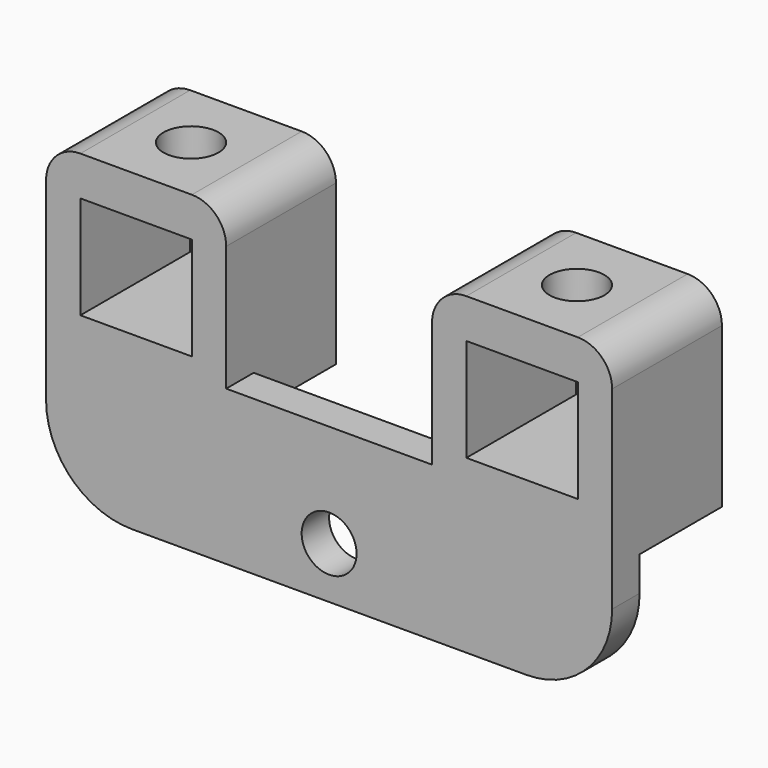
from build123d import *

# Parameters (mm, degrees)
CYLINDER077_R     = 1.6
CYLINDER077_DEPTH = 2.3
BOX189_W          = 10.5
BOX189_H          = 8
BOX189_DEPTH      = 2.3
FILLET046_R       = 2
CYLINDER078_R     = 1.6
CYLINDER078_DEPTH = 2.3
BOX190_W          = 10.5
BOX190_H          = 8
BOX190_DEPTH      = 2.3
FILLET045_R       = 2
BOX200_W          = 6.5
BOX200_H          = 9
BOX200_DEPTH      = 3
BOX199_W          = 2
BOX199_H          = 8
BOX199_DEPTH      = 9
BOX198_W          = 2
BOX198_H          = 8
BOX198_DEPTH      = 9
BOX197_W          = 6.5
BOX197_H          = 9
BOX197_DEPTH      = 3
BOX196_W          = 2
BOX196_H          = 8
BOX196_DEPTH      = 9
BOX195_W          = 2
BOX195_H          = 8
BOX195_DEPTH      = 9
CYLINDER076_R     = 1.6
CYLINDER076_DEPTH = 2
BOX194_W          = 33
BOX194_H          = 2
BOX194_DEPTH      = 9
FILLET047_R       = 5


with BuildPart() as cylinder158:
    # Cylinder077 → Cylinder077 (new body)
    with BuildSketch(Plane(origin=(47.75, 15, 6), x_dir=(1, 0, 0), z_dir=(0, 0, 1))):
        Circle(CYLINDER077_R)
    extrude(amount=CYLINDER077_DEPTH)


with BuildPart() as fillet046:
    # Box189 → Box189 (new body)
    with BuildSketch(Plane(origin=(42.5, 11, 6), x_dir=(1, 0, 0), z_dir=(0, 0, 1))):
        with Locations((5.25, 4)):
            Rectangle(BOX189_W, BOX189_H)
    extrude(amount=BOX189_DEPTH)

    # Cut100: cut Cylinder158
    add(cylinder158.part, mode=Mode.SUBTRACT)

    # Fillet046
    fillet046_edges = [fillet046.edges().sort_by_distance(p)[0] for p in [
        (42.5, 15, 8.3),
        (53, 15, 8.3),
    ]]
    fillet(fillet046_edges, radius=FILLET046_R)


with BuildPart() as cylinder159:
    # Cylinder078 → Cylinder078 (new body)
    with BuildSketch(Plane(origin=(70.25, 15, 6), x_dir=(1, 0, 0), z_dir=(0, 0, 1))):
        Circle(CYLINDER078_R)
    extrude(amount=CYLINDER078_DEPTH)


with BuildPart() as fillet045:
    # Box190 → Box190 (new body)
    with BuildSketch(Plane(origin=(65, 11, 6), x_dir=(1, 0, 0), z_dir=(0, 0, 1))):
        with Locations((5.25, 4)):
            Rectangle(BOX190_W, BOX190_H)
    extrude(amount=BOX190_DEPTH)

    # Cut101: cut Cylinder159
    add(cylinder159.part, mode=Mode.SUBTRACT)

    # Fillet045
    fillet045_edges = [fillet045.edges().sort_by_distance(p)[0] for p in [
        (65, 15, 8.3),
        (75.5, 15, 8.3),
    ]]
    fillet(fillet045_edges, radius=FILLET045_R)


with BuildPart() as cube189:
    # Box200 → Box200 (new body)
    with BuildSketch(Plane(origin=(44.5, 11, -3), x_dir=(1, 0, 0), z_dir=(0, 0, 1))):
        with Locations((3.25, 4.5)):
            Rectangle(BOX200_W, BOX200_H)
    extrude(amount=BOX200_DEPTH)


with BuildPart() as cube188:
    # Box199 → Box199 (new body)
    with BuildSketch(Plane(origin=(51, 11, -3), x_dir=(1, 0, 0), z_dir=(0, 0, 1))):
        with Locations((1, 4)):
            Rectangle(BOX199_W, BOX199_H)
    extrude(amount=BOX199_DEPTH)


with BuildPart() as cube187:
    # Box198 → Box198 (new body)
    with BuildSketch(Plane(origin=(42.5, 11, -3), x_dir=(1, 0, 0), z_dir=(0, 0, 1))):
        with Locations((1, 4)):
            Rectangle(BOX198_W, BOX198_H)
    extrude(amount=BOX198_DEPTH)


with BuildPart() as cube186:
    # Box197 → Box197 (new body)
    with BuildSketch(Plane(origin=(67, 11, -3), x_dir=(1, 0, 0), z_dir=(0, 0, 1))):
        with Locations((3.25, 4.5)):
            Rectangle(BOX197_W, BOX197_H)
    extrude(amount=BOX197_DEPTH)


with BuildPart() as cube185:
    # Box196 → Box196 (new body)
    with BuildSketch(Plane(origin=(73.5, 11, -3), x_dir=(1, 0, 0), z_dir=(0, 0, 1))):
        with Locations((1, 4)):
            Rectangle(BOX196_W, BOX196_H)
    extrude(amount=BOX196_DEPTH)


with BuildPart() as cube184:
    # Box195 → Box195 (new body)
    with BuildSketch(Plane(origin=(65, 11, -3), x_dir=(1, 0, 0), z_dir=(0, 0, 1))):
        with Locations((1, 4)):
            Rectangle(BOX195_W, BOX195_H)
    extrude(amount=BOX195_DEPTH)


with BuildPart() as cylinder157:
    # Cylinder076 → Cylinder076 (new body)
    with BuildSketch(Plane(origin=(59, 13, -7), x_dir=(1, 0, 0), z_dir=(0, -1, 0))):
        Circle(CYLINDER076_R)
    extrude(amount=CYLINDER076_DEPTH)


with BuildPart() as fusion061:
    # Box194 → Box194 (new body)
    with BuildSketch(Plane(origin=(42.5, 11, -10), x_dir=(1, 0, 0), z_dir=(0, 0, 1))):
        with Locations((16.5, 1)):
            Rectangle(BOX194_W, BOX194_H)
    extrude(amount=BOX194_DEPTH)

    # Cut102: cut Cylinder157
    add(cylinder157.part, mode=Mode.SUBTRACT)

    # Fillet047
    fillet047_edges = [fusion061.edges().sort_by_distance(p)[0] for p in [
        (42.5, 12, -10),
        (75.5, 12, -10),
    ]]
    fillet(fillet047_edges, radius=FILLET047_R)

    # Fusion061: union Fillet046, Fillet045, Cube189, Cube188, Cube187, Cube186, Cube185, Cube184
    add(fillet046.part)
    add(fillet045.part)
    add(cube189.part)
    add(cube188.part)
    add(cube187.part)
    add(cube186.part)
    add(cube185.part)
    add(cube184.part)


solid = fusion061.part
